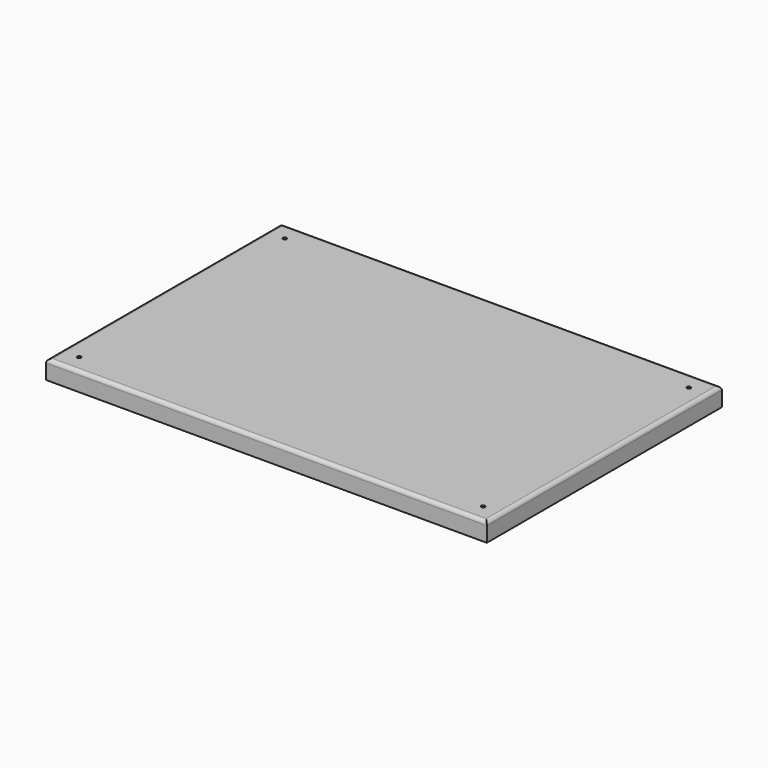
from build123d import *

# Parameters (mm, degrees)
F0_W     = 600
F0_H     = 400
F0_R     = 2.5
F1_DEPTH = 25.4
F2_R     = 5


with BuildPart() as f1:
    # F0 (on Top) → F1 (new body)
    with BuildSketch(Plane.XY):
        with Locations((1.873771, 11.678731)):
            Rectangle(F0_W, F0_H)
        with Locations((-273.126229, -163.321269)):
            Circle(F0_R, mode=Mode.SUBTRACT)
        with Locations((276.873771, -163.321269)):
            Circle(F0_R, mode=Mode.SUBTRACT)
        with Locations((-273.126229, 186.678731)):
            Circle(F0_R, mode=Mode.SUBTRACT)
        with Locations((276.873771, 186.678731)):
            Circle(F0_R, mode=Mode.SUBTRACT)
    extrude(amount=F1_DEPTH)

    # F2
    f2_edges = [f1.edges().sort_by_distance(p)[0] for p in [
        (1.873771, -188.321269, 25.4),
        (-298.126229, 11.678731, 25.4),
        (1.873771, 211.678731, 25.4),
        (301.873771, 11.678731, 25.4),
    ]]
    fillet(f2_edges, radius=F2_R)


solid = f1.part
